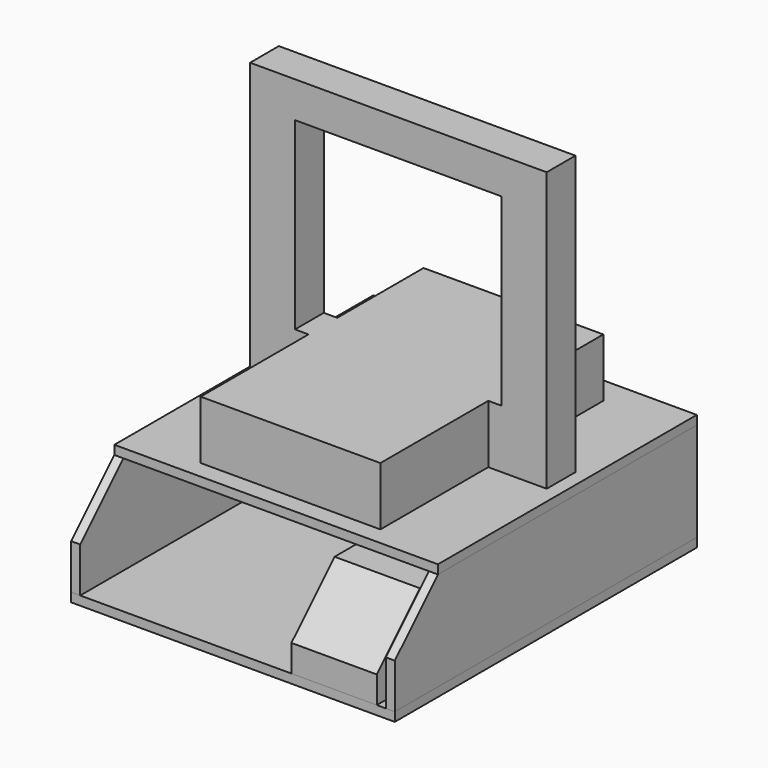
from build123d import *

# Parameters (mm, degrees)
F0_W      = 419.1
F0_H      = 393.7
F0_W_2    = 292.1
F0_H_2    = 260.35
F1_DEPTH  = 50.8
F2_W      = 254
F2_H      = 82.55
F3_DEPTH  = 190.5
F4_DEPTH  = 393.7
F5_W      = 457.2
F5_H      = 457.2
F6_DEPTH  = 12.7
F8_W      = 457.2
F8_H      = 76.2
F8_H_2    = 457.2
F9_DEPTH  = 12.7
F12_DEPTH = 120.65
F14_DEPTH = 12.7
F17_W     = 260.35
F17_H     = 139.7
F18_DEPTH = 12.7
F20_DEPTH = 12.7


with BuildPart() as f1:
    # F0 (on Front) → F1 (new body)
    with BuildSketch(Plane.XZ):
        with Locations((209.55, 196.85)):
            Rectangle(F0_W, F0_H)
        with Locations((209.55, 212.725)):
            Rectangle(F0_W_2, F0_H_2, mode=Mode.SUBTRACT)
    extrude(amount=-F1_DEPTH)

    # F2 (on face) → F3 (join)
    with BuildSketch(Plane.XZ):
        with Locations((209.55, 41.275)):
            Rectangle(F2_W, F2_H)
    extrude(amount=F3_DEPTH)

    # F4 (add): a face of the model
    f4_faces = [f1.faces().sort_by_distance(p)[0] for p in [
        (209.55, -190.5, 41.275),
    ]]
    extrude(f4_faces, amount=-F4_DEPTH)


with BuildPart() as f6:
    # F5 (on face) → F6 (new body)
    with BuildSketch(Plane(origin=(0, 0, 0), x_dir=(1, 0, 0), z_dir=(0, 0, -1))):
        with Locations((209.55, -12.7)):
            Rectangle(F5_W, F5_H)
        Polygon((0, 0), (82.55, 0), (82.55, 190.5), (336.55, 190.5), (336.55, 0), (419.1, 0), (419.1, -50.8), (336.55, -50.8), (336.55, -203.2), (82.55, -203.2), (82.55, -50.8), (0, -50.8), align=None, mode=Mode.SUBTRACT)
        Polygon((82.55, 190.5), (82.55, 0), (0, 0), (0, -50.8), (82.55, -50.8), (82.55, -203.2), (336.55, -203.2), (336.55, -50.8), (419.1, -50.8), (419.1, 0), (336.55, 0), (336.55, 190.5), align=None)
    extrude(amount=F6_DEPTH)

    # F19 (on face) → F20 (cut, through all)
    with BuildSketch(Plane.XY):
        with BuildLine():
            ThreePointArc((279.4, 228.6), (285.75, 222.25), (292.1, 228.6))
            ThreePointArc((292.1, 228.6), (285.75, 234.95), (279.4, 228.6))
        make_face()
        with BuildLine():
            ThreePointArc((279.4, 228.6), (285.75, 234.95), (292.1, 228.6))
            Line((292.1, 228.6), (292.1, 241.3))
            Line((292.1, 241.3), (279.4, 241.3))
            Line((279.4, 241.3), (279.4, 228.6))
        make_face()
    extrude(amount=-F20_DEPTH, mode=Mode.SUBTRACT)


with BuildPart() as f9:
    # F8 (on offset) → F9 (new body)
    with BuildSketch(Plane(origin=(0, 0, -152.4), x_dir=(1, 0, 0), z_dir=(0, 0, -1))):
        with Locations((209.55, 254)):
            Rectangle(F8_W, F8_H)
        with Locations((209.55, -12.7)):
            Rectangle(F8_W, F8_H_2)
    extrude(amount=F9_DEPTH)


with BuildPart() as f12:
    # F11 (on offset) → F12 (new body)
    with BuildSketch(Plane.YZ.offset(412.75)):
        Polygon((-292.1, -152.4), (127, -152.4), (127, -25.4), (98.425, -25.4), (44.45, -38.1), (-215.9, -38.1), (-292.1, -114.3), align=None)
    extrude(amount=-F12_DEPTH)


with BuildPart() as f14:
    # F13 (on face) → F14 (new body)
    with BuildSketch(Plane.YZ.offset(438.15)):
        Polygon((241.3, -152.4), (241.3, -12.7), (-215.9, -12.7), (-292.1, -88.9), (-292.1, -152.4), align=None)
    extrude(amount=-F14_DEPTH)


with BuildPart() as f16_1:
    # F16: instance of F14
    add(f14.part.mirror(Plane(origin=(209.55, 12.7, -6.35), x_dir=(0, 1, 0), z_dir=(1, 0, 0))))


with BuildPart() as f18:
    # F17 (on face) → F18 (new body)
    with BuildSketch(Plane(origin=(0, 241.3, 0), x_dir=(-1, 0, 0), z_dir=(0, 1, 0))):
        with Locations((-123.825, -82.55)):
            Rectangle(F17_W, F17_H)
    extrude(amount=-F18_DEPTH)


solid = Compound([f1.part, f6.part, f9.part, f12.part, f14.part, f16_1.part, f18.part])
